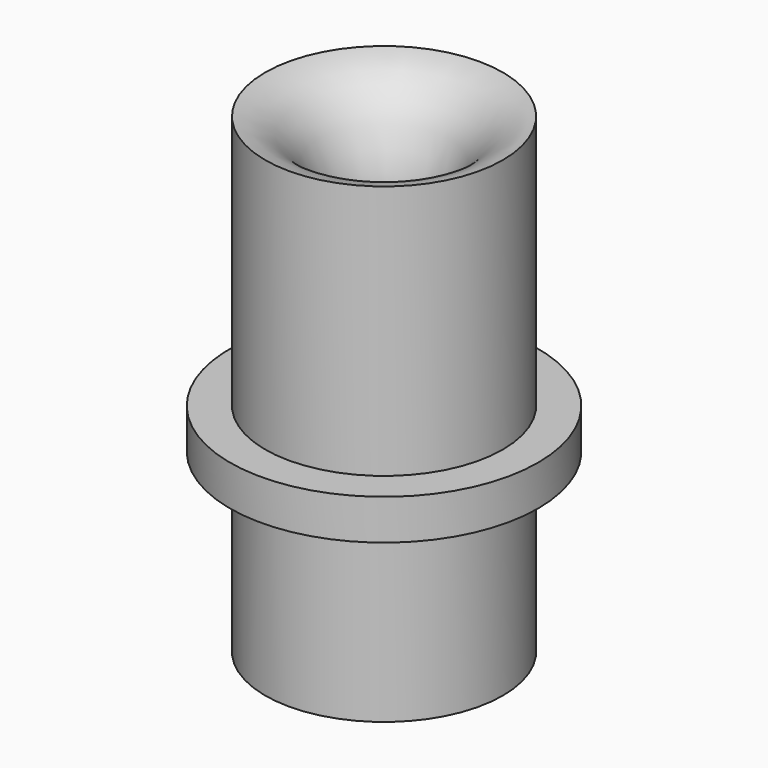
from build123d import *


with BuildPart() as f1:
    # F0 (on Front) → F1 (revolve)
    with BuildSketch(Plane.XZ):
        with BuildLine():
            Line((13, -25), (15.1172224432, -25))
            Line((15.1172224432, -25), (15.1172224432, -2.5685927831))
            Line((15.1172224432, -2.5685927831), (15.1172224432, 2.5685927831))
            Line((15.1172224432, 2.5685927831), (15.1172224432, 35))
            add(Edge.make_bspline(
                [(15.1172224432, 35), (10.0791664263, 34.3889759882), (4.0376053781, 22.9443653974), (8.016607968, 17.2045025786), (9.5755117753, 12.7803640445)],
                knots=[0, 0, 0, 0, 0.5233807249, 1, 1, 1, 1], degree=3))
            Line((9.5755117753, 12.7803640445), (13, 0))
            Line((13, 0), (13, -25))
        make_face()
        Polygon((15.1172224432, 2.5685927831), (15.1172224432, -2.5685927831), (19.6100920439, -2.5685927831), (19.6100920439, 0), (19.6100920439, 2.5685927831), align=None)
    revolve(axis=Axis((0, 0, -12.5), (0, 0, -1)))


solid = f1.part
